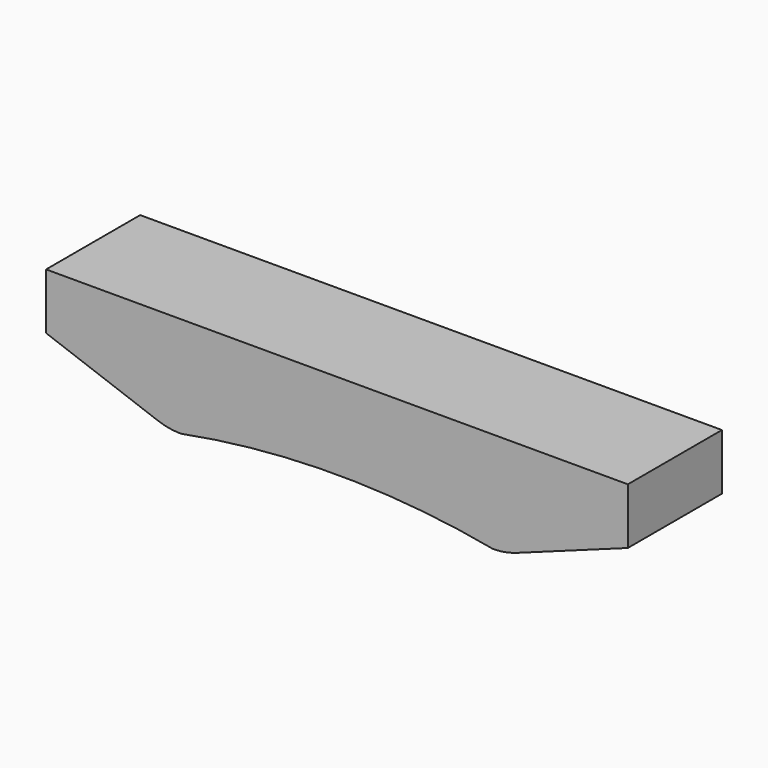
from build123d import *

# Parameters (mm, degrees)
F1_DEPTH = 25.4
F2_R     = 101.6
F4_DEPTH = 50.8
F6_DEPTH = 50.8
F8_DEPTH = 50.8


with BuildPart() as f1:
    # F0 (on Front) → F1 (new body)
    with BuildSketch(Plane.XZ):
        Polygon((-439.8253767191, 78.747405897), (-254, 11.1125), (254, 11.1125), (439.8253767191, 78.747405897), (439.8253767191, 163.5125), (-439.8253767191, 163.5125), align=None)
    extrude(amount=F1_DEPTH)

    # F2
    f2_edges = [f1.edges().sort_by_distance(p)[0] for p in [
        (-254, -12.7, 11.1125),
        (254, -12.7, 11.1125),
    ]]
    fillet(f2_edges, radius=F2_R)

    # F3 (on face) → F4 (join)
    with BuildSketch(Plane.XZ.offset(25.4)):
        with BuildLine():
            ThreePointArc((-236.08517876, 11.1125), (0, 14.2875), (236.08517876, 11.1125))
            ThreePointArc((236.08517876, 11.1125), (253.727833611, 12.656032294), (270.8344253219, 17.2397297282))
            Line((270.8344253219, 17.2397297282), (439.8253767191, 78.747405897))
            Line((439.8253767191, 78.747405897), (439.8253767191, 163.5125))
            Line((439.8253767191, 163.5125), (-439.8253767191, 163.5125))
            Line((-439.8253767191, 163.5125), (-439.8253767191, 78.747405897))
            Line((-439.8253767191, 78.747405897), (-270.8344253219, 17.2397297282))
            ThreePointArc((-270.8344253219, 17.2397297282), (-253.727833611, 12.656032294), (-236.08517876, 11.1125))
        make_face()
    extrude(amount=F4_DEPTH)

    # F5 (on face) → F6 (join)
    with BuildSketch(Plane.XZ.offset(76.2)):
        with BuildLine():
            ThreePointArc((-236.08517876, 11.1125), (0, 20.6375), (236.08517876, 11.1125))
            ThreePointArc((236.08517876, 11.1125), (253.727833611, 12.656032294), (270.8344253219, 17.2397297282))
            Line((270.8344253219, 17.2397297282), (439.8253767191, 78.747405897))
            Line((439.8253767191, 78.747405897), (439.8253767191, 163.5125))
            Line((439.8253767191, 163.5125), (-439.8253767191, 163.5125))
            Line((-439.8253767191, 163.5125), (-439.8253767191, 78.747405897))
            Line((-439.8253767191, 78.747405897), (-270.8344253219, 17.2397297282))
            ThreePointArc((-270.8344253219, 17.2397297282), (-253.727833611, 12.656032294), (-236.08517876, 11.1125))
        make_face()
    extrude(amount=F6_DEPTH)

    # F7 (on face) → F8 (join)
    with BuildSketch(Plane.XZ.offset(127)):
        with BuildLine():
            ThreePointArc((-236.08517876, 11.1125), (0, 33.3375), (236.08517876, 11.1125))
            ThreePointArc((236.08517876, 11.1125), (253.727833611, 12.656032294), (270.8344253219, 17.2397297282))
            Line((270.8344253219, 17.2397297282), (439.8253767191, 78.747405897))
            Line((439.8253767191, 78.747405897), (439.8253767191, 163.5125))
            Line((439.8253767191, 163.5125), (-439.8253767191, 163.5125))
            Line((-439.8253767191, 163.5125), (-439.8253767191, 78.747405897))
            Line((-439.8253767191, 78.747405897), (-270.8344253219, 17.2397297282))
            ThreePointArc((-270.8344253219, 17.2397297282), (-253.727833611, 12.656032294), (-236.08517876, 11.1125))
        make_face()
    extrude(amount=F8_DEPTH)


solid = f1.part
